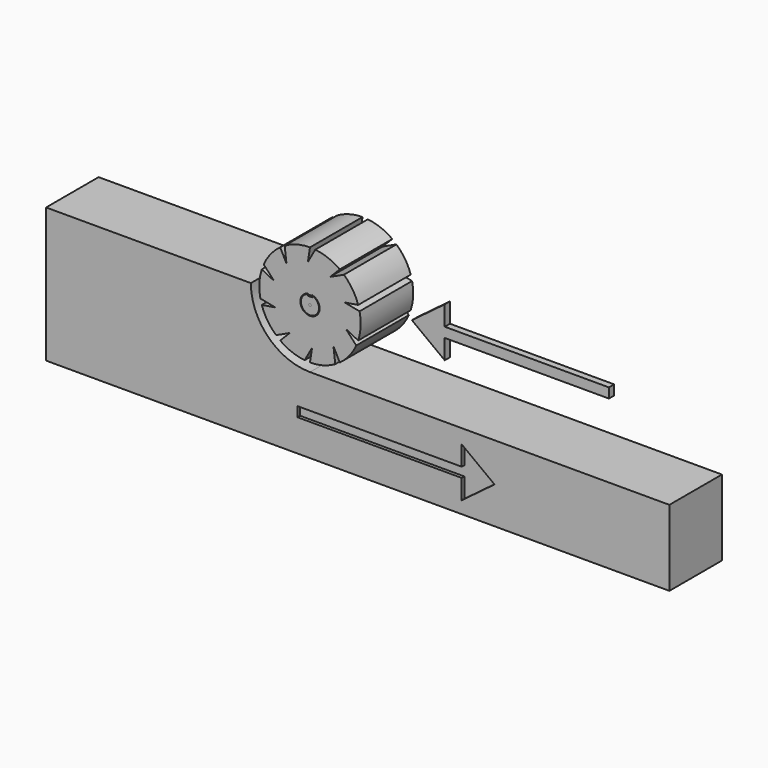
from build123d import *

# Parameters (mm, degrees)
F0_R     = 0.199808
F1_DEPTH = 5
F2_DEPTH = 4.5
F3_DEPTH = 0.5
F4_DEPTH = 5


with BuildPart() as f1:
    # F0 (on Front) → F1 (new body, symmetric)
    with BuildSketch(Plane.XZ):
        with BuildLine():
            Line((14.603343, 20.531734), (14.603343, 0))
            Line((14.603343, 0), (45.782184, 0))
            Line((45.782184, 0), (109.500438, 0))
            Line((109.500438, 0), (109.500438, 11.531734))
            Line((109.500438, 11.531734), (54.782184, 11.531734))
            ThreePointArc((54.782184, 11.531734), (48.418223, 14.167773), (45.782184, 20.531734))
            Line((45.782184, 20.531734), (14.603343, 20.531734))
        make_face()
        Polygon((52.882191, 6.356732), (77.882191, 6.356732), (77.882191, 9.356732), (82.882191, 5.606732), (77.882191, 1.856732), (77.882191, 4.856732), (52.882191, 4.856732), align=None, mode=Mode.SUBTRACT)
        with BuildLine():
            Line((51.204443, 24.914748), (50.246479, 26.774597))
            ThreePointArc((50.246479, 26.774597), (48.786747, 25.389788), (47.734643, 23.67468))
            Line((47.734643, 23.67468), (49.31146, 21.974723))
            Line((49.31146, 21.974723), (47.443259, 22.916296))
            ThreePointArc((47.443259, 22.916296), (47.076282, 20.937952), (47.233226, 18.93199))
            Line((47.233226, 18.93199), (49.508108, 18.483526))
            Line((49.508108, 18.483526), (47.443259, 18.147173))
            ThreePointArc((47.443259, 18.147173), (48.309209, 16.330956), (49.615255, 14.800348))
            Line((49.615255, 14.800348), (51.719274, 15.774675))
            Line((51.719274, 15.774675), (50.246479, 14.288872))
            ThreePointArc((50.246479, 14.288872), (52.014593, 13.328514), (53.970875, 12.857901))
            Line((53.970875, 12.857901), (55.100367, 14.882859))
            Line((55.100367, 14.882859), (54.782184, 12.815132))
            ThreePointArc((54.782184, 12.815132), (56.777103, 13.077457), (58.636388, 13.846597))
            Line((58.636388, 13.846597), (58.359925, 16.148721))
            Line((58.359925, 16.148721), (59.317889, 14.288872))
            ThreePointArc((59.317889, 14.288872), (60.777622, 15.673681), (61.829726, 17.388788))
            Line((61.829726, 17.388788), (60.252908, 19.088746))
            Line((60.252908, 19.088746), (62.121109, 18.147173))
            ThreePointArc((62.121109, 18.147173), (62.488087, 20.125517), (62.331142, 22.131479))
            Line((62.331142, 22.131479), (60.05626, 22.579943))
            Line((60.05626, 22.579943), (62.121109, 22.916296))
            ThreePointArc((62.121109, 22.916296), (61.255159, 24.732513), (59.949114, 26.263121))
            Line((59.949114, 26.263121), (57.845095, 25.288794))
            Line((57.845095, 25.288794), (59.317889, 26.774597))
            ThreePointArc((59.317889, 26.774597), (57.549775, 27.734955), (55.593493, 28.205568))
            Line((55.593493, 28.205568), (54.464001, 26.18061))
            Line((54.464001, 26.18061), (54.782184, 28.248337))
            ThreePointArc((54.782184, 28.248337), (52.787265, 27.986012), (50.927981, 27.216872))
            Line((50.927981, 27.216872), (51.204443, 24.914748))
        make_face()
        with BuildLine():
            Line((54.473073, 21.965987), (54.473073, 21.84982))
            Line((54.473073, 21.84982), (55.091295, 21.84982))
            Line((55.091295, 21.84982), (55.091295, 21.965987))
            ThreePointArc((55.091295, 21.965987), (54.782184, 19.06455), (54.473073, 21.965987))
        make_face(mode=Mode.SUBTRACT)
        with BuildLine():
            Line((54.383074, 21.656128), (54.383074, 21.84982))
            ThreePointArc((54.383074, 21.84982), (54.782184, 19.154549), (55.181295, 21.84982))
            Line((55.181295, 21.84982), (55.181295, 21.656128))
            Line((55.181295, 21.656128), (54.383074, 21.656128))
        make_face()
        with Locations((54.782184, 20.531734)):
            Circle(F0_R, mode=Mode.SUBTRACT)
    extrude(amount=F1_DEPTH, both=True)

    # F0 (on Front) → F2 (join, symmetric)
    with BuildSketch(Plane.XZ):
        Polygon((77.882191, 9.356732), (77.882191, 6.356732), (52.882191, 6.356732), (52.882191, 4.856732), (77.882191, 4.856732), (77.882191, 1.856732), (82.882191, 5.606732), align=None)
    extrude(amount=F2_DEPTH, both=True)


with BuildPart() as f3:
    # F0 (on Front) → F3 (new body, symmetric)
    with BuildSketch(Plane.XZ):
        Polygon((71.698804, 16.781734), (71.698804, 19.781734), (96.698804, 19.781734), (96.698804, 21.281734), (71.698804, 21.281734), (71.698804, 24.281734), (66.698804, 20.531734), align=None)
    extrude(amount=F3_DEPTH, both=True)


with BuildPart() as f4:
    # F0 (on Front) → F4 (new body, symmetric)
    with BuildSketch(Plane.XZ):
        with Locations((54.782184, 20.531734)):
            Circle(F0_R)
    extrude(amount=F4_DEPTH, both=True)


solid = Compound([f1.part, f3.part, f4.part])
